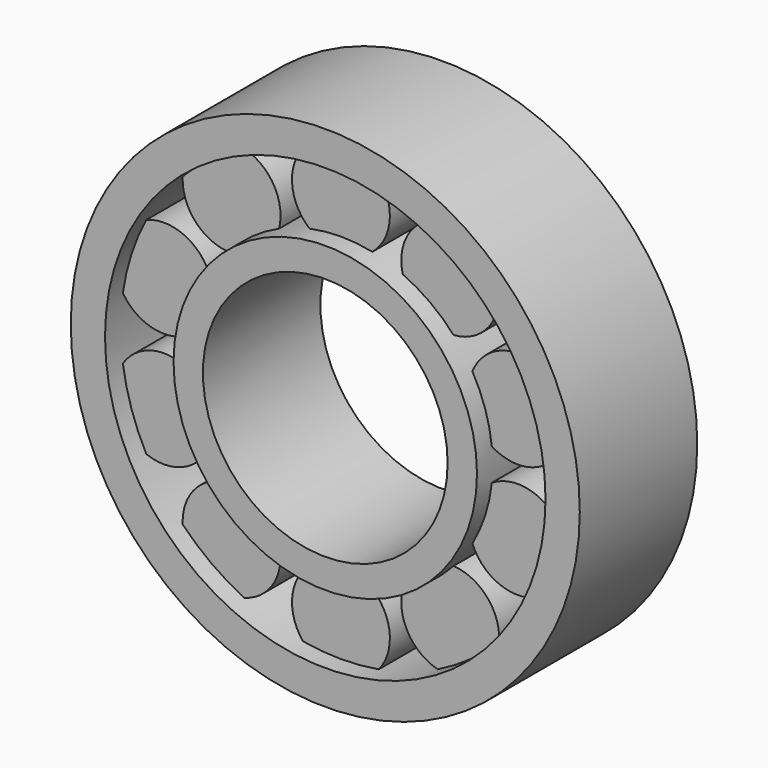
from build123d import *

# Parameters (mm, degrees)
F0_R     = 26
F0_R_2   = 22.5
F0_R_3   = 15.5
F0_R_4   = 12.5
F1_DEPTH = 15
F3_R     = 5
F4_DEPTH = 5.5


with BuildPart() as f1:
    # F0 (on Front) → F1 (new body)
    with BuildSketch(Plane.XZ):
        Circle(F0_R)
        Circle(F0_R_2, mode=Mode.SUBTRACT)
        Circle(F0_R_3)
        Circle(F0_R_4, mode=Mode.SUBTRACT)
    extrude(amount=-F1_DEPTH)

    # F3 (on offset) → F4 (join, symmetric)
    with BuildSketch(Plane.XZ.offset(-7.5)):
        with Locations((0, 19)):
            Circle(F3_R)
        with Locations((-11.16792, 15.371323)):
            Circle(F3_R)
        with Locations((-18.070074, 5.871323)):
            Circle(F3_R)
        with Locations((-18.070074, -5.871323)):
            Circle(F3_R)
        with Locations((0, -19)):
            Circle(F3_R)
        with Locations((18.070074, 5.871323)):
            Circle(F3_R)
        with Locations((-11.16792, -15.371323)):
            Circle(F3_R)
        with Locations((11.16792, -15.371323)):
            Circle(F3_R)
        with Locations((11.16792, 15.371323)):
            Circle(F3_R)
        with Locations((18.070074, -5.871323)):
            Circle(F3_R)
    extrude(amount=F4_DEPTH, both=True)


solid = f1.part
